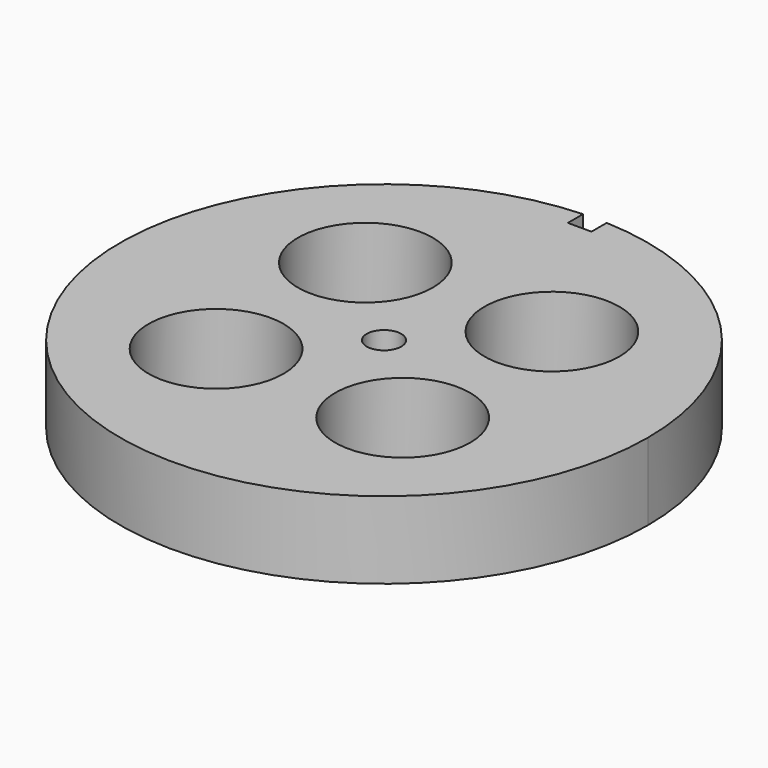
from build123d import *

# Parameters (mm, degrees)
F0_R     = 9.41
F0_R_2   = 2.405
F1_DEPTH = 10.75


with BuildPart() as f1:
    # F0 (on Top) → F1 (new body)
    with BuildSketch(Plane.XY):
        with BuildLine():
            ThreePointArc((-1.65, 36.752981), (-25.424404, -26.591423), (36.79, 0))
            ThreePointArc((36.79, 0), (26.591423, 25.424404), (1.65, 36.752981))
            Line((1.65, 36.752981), (1.65, 34.1))
            Line((1.65, 34.1), (0, 34.1))
            Line((0, 34.1), (-1.65, 34.1))
            Line((-1.65, 34.1), (-1.65, 36.752981))
        make_face()
        with Locations((-13.007229, -13.007229)):
            Circle(F0_R, mode=Mode.SUBTRACT)
        with Locations((13.007229, -13.007229)):
            Circle(F0_R, mode=Mode.SUBTRACT)
        with Locations((-13.007229, 13.007229)):
            Circle(F0_R, mode=Mode.SUBTRACT)
        Circle(F0_R_2, mode=Mode.SUBTRACT)
        with Locations((13.007229, 13.007229)):
            Circle(F0_R, mode=Mode.SUBTRACT)
    extrude(amount=F1_DEPTH)


solid = f1.part
